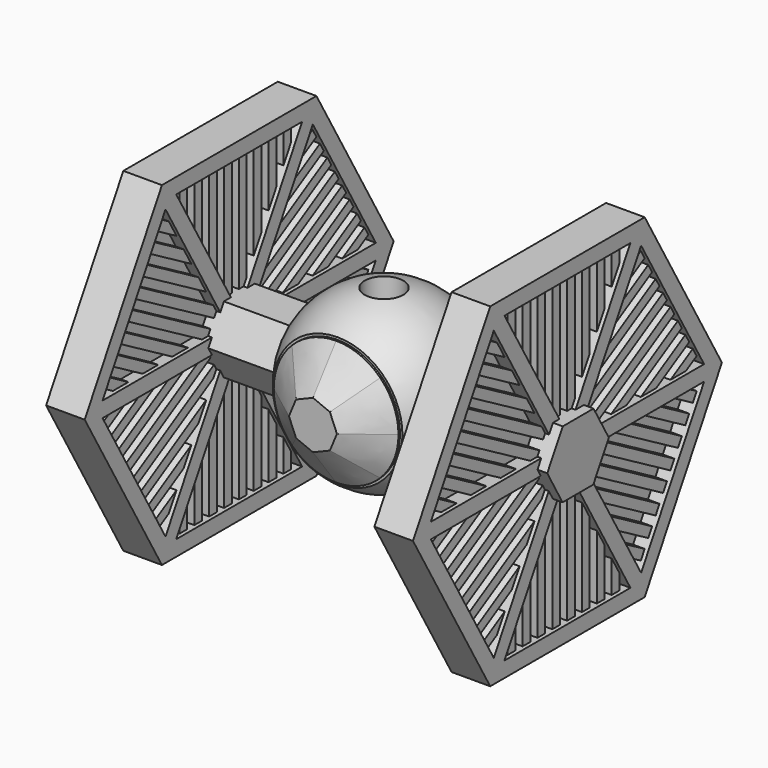
from build123d import *

# Parameters (mm, degrees)
SKETCH004_R             = 3.2300071389
EXTRUDE003_DEPTH        = 0.5
CYLINDER001_R           = 2.2
CYLINDER001_DEPTH       = 10
BOX_W                   = 8
BOX_H                   = 4
BOX_DEPTH               = 8
CYLINDER_R              = 1
CYLINDER_DEPTH          = 10
EXTRUDE_DEPTH           = 0.8
BODY002_PLACEMENT_ANGLE = 120
BODY001_PLACEMENT_ANGLE = 60
EXTRUDE002_DEPTH        = 0.2
EXTRUDE002_DEPTH_BACK   = 0.4
BODY003_PLACEMENT_ANGLE = 180
BODY004_PLACEMENT_ANGLE = 240
BODY005_PLACEMENT_ANGLE = 60
EXTRUDE001_DEPTH        = 1
PRISM_DEPTH             = 20
PRISM_ROLL_ANGLE        = -90.0875940024
PRISM_PITCH_ANGLE       = -0.0873265828
PRISM_PLACEMENT_ANGLE   = -89.8248117904


with BuildPart() as extrude003:
    # Sketch004 → Extrude003 (new body)
    with BuildSketch(Plane.XZ.offset(5)):
        Circle(SKETCH004_R)
    extrude(amount=-EXTRUDE003_DEPTH)


with BuildPart() as fusion003:
    # Sketch004 → Loft section 0
    with BuildSketch(Plane.XZ.offset(5)):
        Circle(SKETCH004_R)
    # Sketch005 → Loft section 1
    with BuildSketch(Plane.XZ.offset(6.5)):
        Polygon((-0.8780074191, 0.8780074191), (-1.24169, 0), (-0.8780074191, -0.8780074191), (0, -1.24169), (0.8780074191, -0.8780074191), (1.24169, 0), (0.8780074191, 0.8780074191), (0, 1.24169), align=None)
    loft()

    # Fusion003: union Extrude003
    add(extrude003.part)


with BuildPart() as fusion003_1:
    # Fusion003 placement: moved
    add(fusion003.part.moved(Location((0, 1.9, 0))))


with BuildPart() as cylinder001:
    # Cylinder001 → Cylinder001 (new body)
    with BuildSketch(Plane(origin=(0, 0, -8), x_dir=(0, 1, 0), z_dir=(0, 0, 1))):
        Circle(CYLINDER001_R)
    extrude(amount=CYLINDER001_DEPTH)


with BuildPart() as cube:
    # Box → Box (new body)
    with BuildSketch(Plane(origin=(-4, -7, -4), x_dir=(1, 0, 0), z_dir=(0, 0, 1))):
        with Locations((4, 2)):
            Rectangle(BOX_W, BOX_H)
    extrude(amount=BOX_DEPTH)


with BuildPart() as body006:
    # Body006 base: copy of Cube
    add(cube.part)


with BuildPart() as body006_1:
    # Body006 placement: moved
    add(body006.part.moved(Location((0, 10.75, 0))))


with BuildPart() as hole:
    # Cylinder → Cylinder (new body)
    with BuildSketch(Plane.XY):
        Circle(CYLINDER_R)
    extrude(amount=CYLINDER_DEPTH)

    # Fusion001: union Cylinder001, Cube, Body006
    add(cylinder001.part)
    add(cube.part)
    add(body006_1.part)


with BuildPart() as extrude_body:
    # Sketch001 → Extrude (new body, symmetric)
    with BuildSketch(Plane.YZ):
        Polygon((-3.6148529983, 7.8602540378), (-3.6148529983, 7.061109055), (-3.1148529983, 6.1950836512), (-3.1148529983, 7.8602540378), align=None)
        Polygon((-2.6534664274, 7.8602540378), (-2.6534664274, 5.3959386684), (-2.1534664274, 4.5299132646), (-2.1534664274, 7.8602540378), align=None)
        Polygon((-1.6920798564, 7.8602540378), (-1.6920798564, 3.7307682818), (-1.1920798564, 2.864742878), (-1.1920798564, 7.8602540378), align=None)
        Polygon((-0.7306932855, 7.8602540378), (-0.7306932855, 2.0655978952), (-0.2306932855, 1.1995724914), (-0.2306932855, 7.8602540378), align=None)
        Polygon((0.7306932855, 7.8602540378), (0.2306932855, 7.8602540378), (0.2306932855, 1.1995724914), (0.7306932855, 2.0655978952), align=None)
        Polygon((1.6920798564, 7.8602540378), (1.1920798564, 7.8602540378), (1.1920798564, 2.864742878), (1.6920798564, 3.7307682818), align=None)
        Polygon((2.6534664274, 7.8602540378), (2.1534664274, 7.8602540378), (2.1534664274, 4.5299132646), (2.6534664274, 5.3959386684), align=None)
        Polygon((3.6148529983, 7.8602540378), (3.1148529983, 7.8602540378), (3.1148529983, 6.1950836512), (3.6148529983, 7.061109055), align=None)
    extrude(amount=EXTRUDE_DEPTH, both=True)


with BuildPart() as body002:
    # Body002 base: copy of Extrude body
    add(extrude_body.part)


with BuildPart() as body002_1:
    # Body002 placement: moved
    add(body002.part.rotate(Axis((0, 0, 0), (1, 0, 0)), BODY002_PLACEMENT_ANGLE))


with BuildPart() as body001:
    # Body001 base: copy of Extrude body
    add(extrude_body.part)


with BuildPart() as body001_1:
    # Body001 placement: moved
    add(body001.part.rotate(Axis((0, 0, 0), (1, 0, 0)), BODY001_PLACEMENT_ANGLE))


with BuildPart() as extrude002:
    # Sketch003 → Extrude002 (new body, two sides)
    with BuildSketch(Plane.YZ) as extrude002_sk:
        Polygon((5, 8.6602540378), (10, 0), (5, -8.6602540378), (-5, -8.6602540378), (-10, 0), (-5, 8.6602540378), align=None)
    extrude(amount=EXTRUDE002_DEPTH)
    extrude(extrude002_sk.sketch, amount=-EXTRUDE002_DEPTH_BACK)


with BuildPart() as body003:
    # Body003 base: copy of Extrude body
    add(extrude_body.part)


with BuildPart() as body003_1:
    # Body003 placement: moved
    add(body003.part.rotate(Axis((0, 0, 0), (1, 0, 0)), BODY003_PLACEMENT_ANGLE))


with BuildPart() as body004:
    # Body004 base: copy of Extrude body
    add(extrude_body.part)


with BuildPart() as body004_1:
    # Body004 placement: moved
    add(body004.part.rotate(Axis((0, 0, 0), (1, 0, 0)), BODY004_PLACEMENT_ANGLE))


with BuildPart() as body005:
    # Body005 base: copy of Extrude body
    add(extrude_body.part)


with BuildPart() as body005_1:
    # Body005 placement: moved
    add(body005.part.rotate(Axis((0, 0, 0), (-1, 0, 0)), BODY005_PLACEMENT_ANGLE))


with BuildPart() as extrude001:
    # Sketch → Extrude001 (new body, symmetric)
    with BuildSketch(Plane.YZ):
        Polygon((5, -8.6602540378), (10, 0), (5, 8.6602540378), (-5, 8.6602540378), (-10, 0), (-5, -8.6602540378), align=None)
        Polygon((-4.0762395693, 7.8602540378), (4.0762395693, 7.8602540378), (0, 0.8), align=None, mode=Mode.SUBTRACT)
        Polygon((0.692820323, 0.4), (4.7690598923, 7.4602540378), (8.8452994616, 0.4), align=None, mode=Mode.SUBTRACT)
        Polygon((0.692820323, -0.4), (8.8452994616, -0.4), (4.7690598923, -7.4602540378), align=None, mode=Mode.SUBTRACT)
        Polygon((0, -0.8), (4.0762395693, -7.8602540378), (-4.0762395693, -7.8602540378), align=None, mode=Mode.SUBTRACT)
        Polygon((-0.692820323, -0.4), (-4.7690598923, -7.4602540378), (-8.8452994616, -0.4), align=None, mode=Mode.SUBTRACT)
        Polygon((-0.692820323, 0.4), (-8.8452994616, 0.4), (-4.7690598923, 7.4602540378), align=None, mode=Mode.SUBTRACT)
    extrude(amount=EXTRUDE001_DEPTH, both=True)


with BuildPart() as wing:
    # Fusion base: copy of Extrude body
    add(extrude_body.part)

    # Fusion: union Body002, Body001, Extrude002, Body003, Body004, Body005, Extrude001
    add(body002_1.part)
    add(body001_1.part)
    add(extrude002.part)
    add(body003_1.part)
    add(body004_1.part)
    add(body005_1.part)
    add(extrude001.part)


with BuildPart() as wing_1:
    # Fusion placement: moved
    add(wing.part.moved(Location((8.5, 0, 0))))


with BuildPart() as sphere:
    # Sphere → Sphere (revolve)
    with BuildSketch(Plane.XZ):
        with BuildLine():
            ThreePointArc((0, -4.5), (4.5, 0), (0, 4.5))
            Line((0, 4.5), (0, -4.5))
        make_face()
    revolve(axis=Axis((0, 0, 0), (0, 0, 1)))


with BuildPart() as prism:
    # Prism → Prism (new body)
    with BuildSketch(Plane.XY):
        Polygon((2, 0), (1, 1.7320508076), (-1, 1.7320508076), (-2, 0), (-1, -1.7320508076), (1, -1.7320508076), align=None)
    extrude(amount=PRISM_DEPTH)


with BuildPart() as prism_1:
    # Prism roll: moved
    add(prism.part.rotate(Axis((0, 0, 0), (1, 0, 0)), PRISM_ROLL_ANGLE))


with BuildPart() as prism_2:
    # Prism pitch: moved
    add(prism_1.part.rotate(Axis((0, 0, 0), (0, 1, 0)), PRISM_PITCH_ANGLE))


with BuildPart() as prism_3:
    # Prism placement: moved
    add(prism_2.part.moved(Location((-10, 0, 0))).rotate(Axis((-10, 0, 0), (0, 0, 1)), PRISM_PLACEMENT_ANGLE))


with BuildPart() as cut:
    # Part__Mirroring: instance of wing
    add(wing_1.part.mirror(Plane(origin=(0, 0, 0), x_dir=(0, -1, 0), z_dir=(1, 0, 0))))

    # Fusion002: union wing, Sphere, Prism
    add(wing_1.part)
    add(sphere.part)
    add(prism_3.part)

    # Cut: cut hole
    add(hole.part, mode=Mode.SUBTRACT)


with BuildPart() as fusion004:
    # Cone → Cone (revolve)
    with BuildSketch(Plane(origin=(0, 5, 0), x_dir=(1, 0, 0), z_dir=(0, 0, -1))):
        Polygon((0, 0), (1.5, 0), (2.3, 1.2), (0, 1.2), align=None)
    revolve(axis=Axis((0, 5, 0), (0, -1, 0)))

    # Fusion004: union Fusion003, Cut
    add(fusion003_1.part)
    add(cut.part)


solid = fusion004.part
